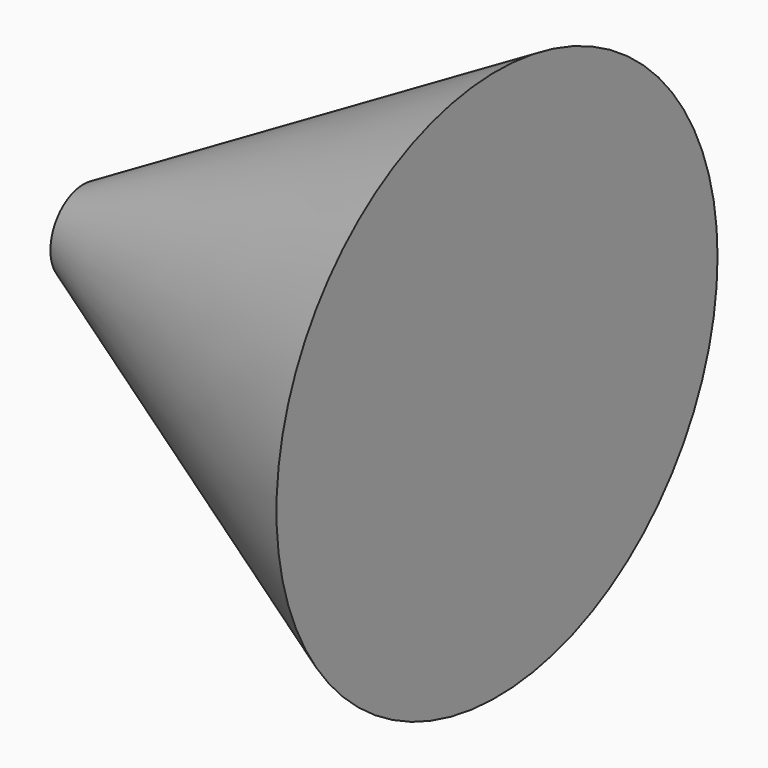
from build123d import *

# Parameters (mm, degrees)
F2_R = 100
F0_R = 15


with BuildPart() as f3:
    # F2 (on offset) → F3 section 0
    with BuildSketch(Plane.YZ.offset(150)):
        Circle(F2_R)
    # F0 (on Right) → F3 section 1
    with BuildSketch(Plane.YZ):
        Circle(F0_R)
    loft()


solid = f3.part
